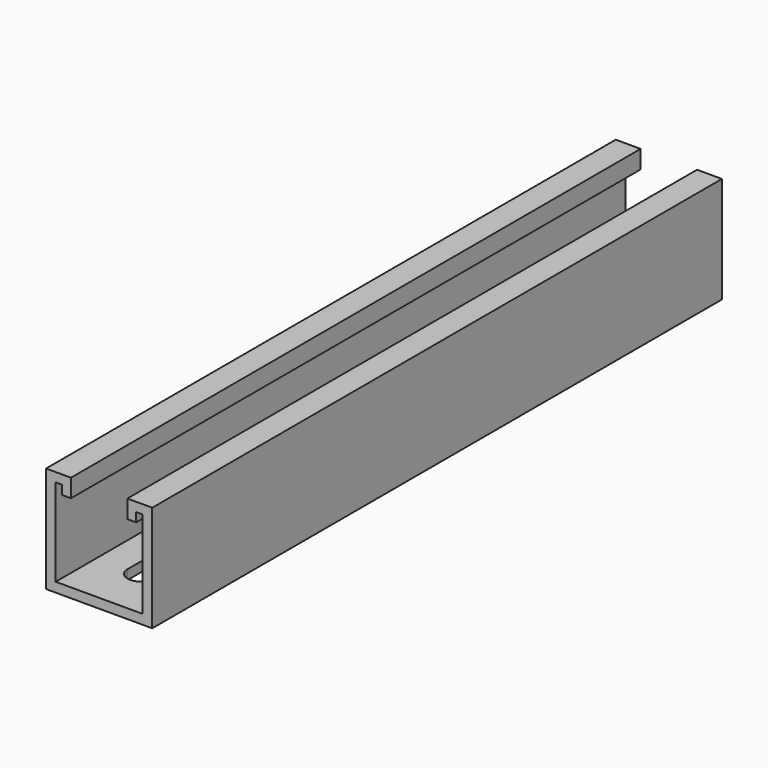
from build123d import *

# Parameters (mm, degrees)
F1_DEPTH = 275
F3_DEPTH = 3.7


with BuildPart() as f1:
    # F0 (on Front) → F1 (new body)
    with BuildSketch(Plane.XZ):
        Polygon((0, 41), (0, 0), (41, 0), (41, 41), (31.4, 41), (31.4, 34), (34.8, 34), (34.8, 37.5), (37.3, 37.5), (37.3, 3.7), (3.7, 3.7), (3.7, 37.5), (6.2, 37.5), (6.2, 34), (9.6, 34), (9.6, 41), align=None)
    extrude(amount=F1_DEPTH)

    # F2 (on face) → F3 (cut, through all)
    with BuildSketch(Plane(origin=(0, 0, 0), x_dir=(1, 0, 0), z_dir=(0, 0, -1))):
        with BuildLine():
            Line((15.5, 255), (15.5, 20))
            ThreePointArc((15.5, 20), (20.5, 15), (25.5, 20))
            Line((25.5, 20), (25.5, 255))
            ThreePointArc((25.5, 255), (20.5, 260), (15.5, 255))
        make_face()
    extrude(amount=-F3_DEPTH, mode=Mode.SUBTRACT)


solid = f1.part
